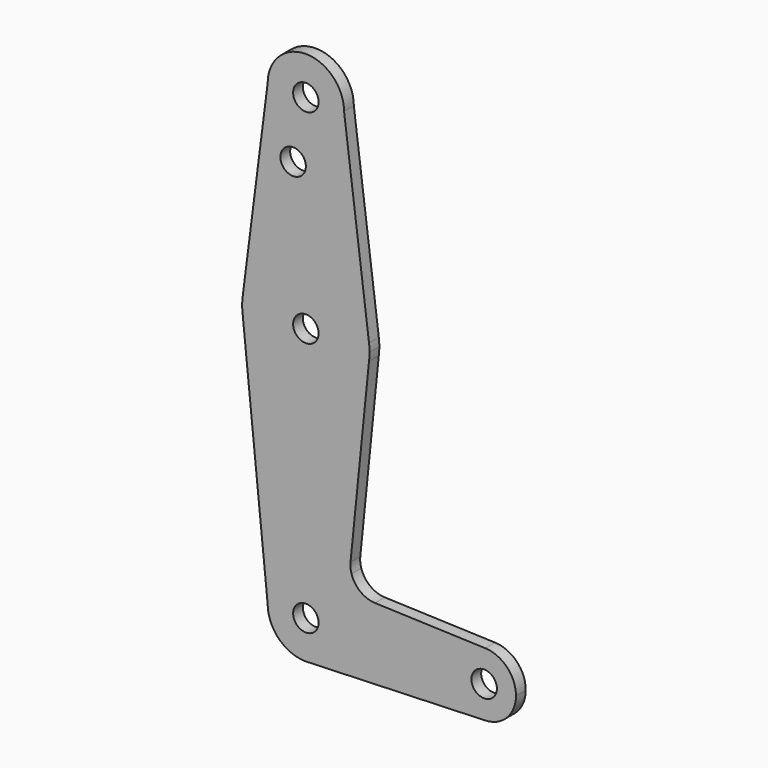
from build123d import *

# Parameters (mm, degrees)
F0_R     = 3.175
F1_DEPTH = 3.048


with BuildPart() as f1:
    # F0 (on Front) → F1 (new body)
    with BuildSketch(Plane.XZ):
        with BuildLine():
            ThreePointArc((-9.525, 114.3), (0, 104.775), (9.525, 114.3))
            ThreePointArc((9.525, 114.3), (0, 123.825), (-9.525, 114.3))
        make_face()
        with Locations((0, 114.3)):
            Circle(F0_R, mode=Mode.SUBTRACT)
        with BuildLine():
            Line((15.747457, 65.508289), (9.525, 114.3))
            ThreePointArc((9.525, 114.3), (0, 104.775), (-9.525, 114.3))
            Line((-9.525, 114.3), (-15.747457, 65.508289))
            ThreePointArc((-15.747457, 65.508289), (0, 79.375), (15.747457, 65.508289))
        make_face()
        with Locations((-3.175, 99.136002)):
            Circle(F0_R, mode=Mode.SUBTRACT)
        with BuildLine():
            ThreePointArc((15.875, 63.5), (15.843082, 64.506168), (15.747457, 65.508289))
            ThreePointArc((15.747457, 65.508289), (0, 79.375), (-15.747457, 65.508289))
            ThreePointArc((-15.747457, 65.508289), (-15.875, 63.5), (-15.747457, 61.491711))
            ThreePointArc((-15.747457, 61.491711), (0, 47.625), (15.747457, 61.491711))
            ThreePointArc((15.747457, 61.491711), (15.843082, 62.493832), (15.875, 63.5))
        make_face()
        with Locations((0, 63.5)):
            Circle(F0_R, mode=Mode.SUBTRACT)
        with BuildLine():
            ThreePointArc((15.747457, 61.491711), (0, 47.625), (-15.747457, 61.491711))
            Line((-15.747457, 61.491711), (-9.525, 0))
            ThreePointArc((-9.525, 0), (0, 9.525), (9.525, 0))
            ThreePointArc((9.525, 0), (6.970557, -6.491299), (0.677344, -9.500886))
            Line((0.677344, -9.500886), (44.732405, -7.932475))
            ThreePointArc((44.732405, -7.932475), (36.5125, 0.000539), (44.733482, 7.932436))
            Line((44.733482, 7.932436), (17.224977, 8.91551))
            ThreePointArc((17.224977, 8.91551), (13.584692, 10.224767), (11.379683, 13.403409))
            ThreePointArc((11.379683, 13.403409), (11.132263, 14.63983), (11.134027, 15.900762))
            Line((11.134027, 15.900762), (15.747457, 61.491711))
        make_face()
        with BuildLine():
            ThreePointArc((9.525, 0), (0, 9.525), (-9.525, 0))
            ThreePointArc((-9.525, 0), (-6.735192, -6.735192), (0, -9.525))
            Line((0, -9.525), (0.677344, -9.500886))
            ThreePointArc((0.677344, -9.500886), (6.970557, -6.491299), (9.525, 0))
        make_face()
        Circle(F0_R, mode=Mode.SUBTRACT)
        with BuildLine():
            Line((0.677344, -9.500886), (0, -9.525))
            ThreePointArc((0, -9.525), (0.338886, -9.51897), (0.677344, -9.500886))
        make_face()
        with BuildLine():
            ThreePointArc((44.733482, 7.932436), (36.5125, 0.000539), (44.732405, -7.932475))
            ThreePointArc((44.732405, -7.932475), (50.161633, -5.51191), (52.3875, 0))
            ThreePointArc((52.3875, 0), (50.162007, 5.511523), (44.733482, 7.932436))
        make_face()
        with Locations((44.45, 0)):
            Circle(F0_R, mode=Mode.SUBTRACT)
    extrude(amount=F1_DEPTH)


solid = f1.part
